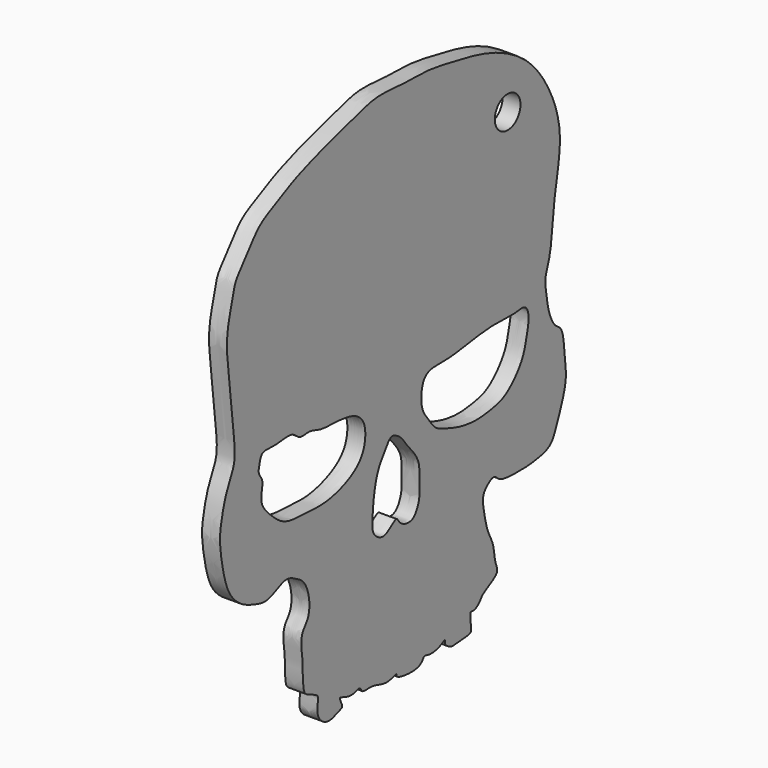
from build123d import *

# Parameters (mm, degrees)
F1_DEPTH = 2.8
F3_D     = 5
F3_DEPTH = 12
F3_TIP   = 1.5021515476


with BuildPart() as f1:
    # F0 (on Right) → F1 (new body)
    with BuildSketch(Plane.YZ):
        with BuildLine():
            add(Edge.make_bspline(
                [(-31.6314250231, 2.2629725281), (-31.5022623164, 3.5733278366), (-32.084502177, 7.3619998692), (-32.4844055662, 12.6708908589), (-33.6101237688, 19.5679290559), (-31.8749353357, 24.3856987582), (-31.6819292031, 26.577974251), (-28.8478925272, 29.5923452072), (-26.9516979755, 32.5411333424), (-23.0902606737, 34.1764656739), (-20.3417451234, 35.7596815072), (-14.8510739911, 37.7553266229), (-8.0075966645, 39.6260680616), (-3.7696084608, 40.9489200556), (1.8230478813, 40.2251331616), (5.8795939333, 40.4557153094), (11.9924587544, 39.2742631608), (18.2053867557, 38.0596382358), (25.6039190844, 34.4663788307), (30.3477510722, 27.7639385741), (32.609647658, 20.3884039898), (30.5358488311, 12.7127659233), (30.2683636428, 5.225589462), (28.7404681221, 2.2897290208), (29.35247476, -0.0460668851), (29.4655249933, -2.082693469), (30.7142346925, -5.1258556332), (32.5747163593, -5.6098080438), (32.7550017093, -10.3751868098), (33.4162771331, -13.5335015531), (31.1711451307, -18.8381701672), (30.2043096136, -21.2761877418), (27.1497466502, -21.910473819), (24.6204287526, -22.1260786927), (21.3516390426, -22.06064594), (19.8950718849, -21.6363351622), (18.9794068191, -20.563005512), (17.6715018273, -21.4913173359), (16.6102626634, -22.615703616), (17.1716949775, -25.4796103361), (17.724239368, -28.0490707881), (19.0584342215, -30.0468571883), (19.0679897719, -32.7354327798), (20.2532798574, -34.5344759712), (16.6431701751, -35.9280746948), (16.2917811625, -37.0556937467), (14.9746520078, -37.8121406605), (14.1371239621, -37.2658261761), (14.6701345687, -39.9503025074), (14.4201972443, -40.6222009547), (12.6120965441, -40.6826616076), (10.8764323796, -40.927741529), (10.1898631843, -40.6518586038), (9.2623073388, -40.0046444825), (9.6509716962, -39.11307364), (8.293980207, -40.1404125012), (6.1779280331, -40.2832716168), (5.3076190837, -39.7518074948), (4.7848842589, -41.3753808122), (0.975944202, -41.1238626395), (-0.1277951166, -40.6005348989), (0.1892436437, -39.9915230028), (-2.0096399663, -41.0871800395), (-4.5937995713, -39.661924332), (-6.8316242034, -40.2627476398), (-7.0544525318, -38.9420787761), (-8.5504516298, -39.8083971229), (-10.3371623423, -39.2758905561), (-11.4582065147, -38.7377431115), (-10.3012195242, -40.5250985757), (-11.2019003886, -40.6876665839), (-13.2645655584, -41.7264478956), (-15.2224926666, -40.4978380116), (-15.6557756408, -38.7589927772), (-15.1080358398, -37.0582113625), (-16.0729426236, -36.5204023925), (-17.7243382602, -35.9333015983), (-18.1958375795, -35.1679641402), (-18.3937046444, -32.8034747843), (-18.2489276481, -31.233623049), (-18.6562535067, -29.2216456196), (-18.583799391, -26.9482960105), (-17.1713062303, -25.7528830491), (-16.9200697947, -23.5843088851), (-17.2999157212, -21.7298889668), (-18.1041544482, -20.0547013892), (-19.5001016745, -19.2281783841), (-21.3133935819, -18.2252082048), (-23.1095959026, -18.9661716558), (-25.3375502669, -20.118591249), (-27.6391682762, -19.4830394962), (-30.4449597159, -18.4852287667), (-32.6089356456, -16.2558015239), (-33.4643189869, -13.9780219257), (-34.0489142028, -11.6627900546), (-34.6292324905, -7.8905100759), (-34.2868338655, -5.6231252409), (-33.535021119, -2.3112187309), (-32.3137000658, -0.0048927787), (-31.7214768755, 1.3493967297), (-31.6314250231, 2.2629725281)],
                knots=[0, 0, 0, 0, 0.0142760402, 0.0295836316, 0.046705848, 0.0609628448, 0.0703356222, 0.083087941, 0.0953804389, 0.1081945223, 0.1197282407, 0.135320708, 0.1526307644, 0.16633004, 0.1812736863, 0.1944489303, 0.2102929566, 0.2267411176, 0.2449825815, 0.2633164769, 0.2808621604, 0.2991690751, 0.3167736161, 0.3281185248, 0.337609835, 0.3471056882, 0.3583482275, 0.3665151062, 0.3797833925, 0.3919821963, 0.4071631773, 0.4173896553, 0.428088026, 0.4387864081, 0.4503599599, 0.4582788779, 0.4651177435, 0.4725627189, 0.4803418803, 0.4910402587, 0.5016727989, 0.5115547742, 0.522083568, 0.5301586692, 0.5416480772, 0.5489075512, 0.5563525383, 0.5608056749, 0.570517769, 0.5756847377, 0.5840579845, 0.5926910133, 0.598290535, 0.6047764249, 0.6092295484, 0.6162171578, 0.6259493222, 0.6314407632, 0.6384463122, 0.6508465448, 0.6573628164, 0.6605116626, 0.6690586346, 0.680515492, 0.6894304517, 0.6950646418, 0.7025096225, 0.7117606553, 0.7167884685, 0.7244060303, 0.7293847995, 0.7390085077, 0.7481888854, 0.7566849916, 0.7647248455, 0.7709474004, 0.7793724933, 0.785351599, 0.7950837605, 0.8034148151, 0.8126267986, 0.822102355, 0.8305580977, 0.8398091284, 0.8487926684, 0.8573482641, 0.8655598876, 0.8745093326, 0.8832821773, 0.8933013517, 0.9030666728, 0.9142172874, 0.9254511684, 0.9353331523, 0.9454427343, 0.9578910246, 0.9678733438, 0.9796326287, 0.9900467875, 1, 1, 1, 1], degree=3))
        make_face()
        with BuildLine():
            add(Edge.make_bspline(
                [(-26.3306088746, -6.0254530981), (-26.5283195156, -5.3119049084), (-26.1961312704, -4.0185808443), (-26.1557107856, -2.6559615251), (-27.0924647305, -1.8291575038), (-26.7922602428, -0.6155688692), (-26.6849174237, -0.0187712865), (-26.1642700205, 1.1696957047), (-23.7313517024, 0.6068469368), (-20.2699860904, 1.5010658887), (-19.024643496, -0.3879012178), (-16.9531619567, 0.2710314914), (-14.9253911858, -0.7976226828), (-11.690736213, -0.7099703765), (-8.9199980678, -1.0739900526), (-7.3138682475, -1.8148664381), (-5.8950928412, -3.425657521), (-6.1637992621, -8.1375247192), (-10.8719776339, -10.5272985443), (-14.636840646, -11.1448452375), (-17.1653136795, -10.8955841942), (-20.2463046813, -10.8950799807), (-22.4622204598, -10.292504707), (-24.5168781089, -8.5500352318), (-26.0897961411, -6.8945590255), (-26.3306088746, -6.0254530981)],
                knots=[0, 0, 0, 0, 0.0415396795, 0.0741458137, 0.1044990729, 0.1350083938, 0.1584503614, 0.1868629888, 0.2307306047, 0.2841389297, 0.3227246174, 0.361779906, 0.4047970594, 0.4570111489, 0.5054332265, 0.5427730004, 0.5830101759, 0.6414390397, 0.705913326, 0.762247875, 0.8083262253, 0.8585614354, 0.9017764056, 0.949404424, 1, 1, 1, 1], degree=3))
        make_face(mode=Mode.SUBTRACT)
        with BuildLine():
            add(Edge.make_bspline(
                [(-1.0851139668, -7.2496430948), (-1.5120607503, -7.4116611526), (-2.2236452859, -8.6722162059), (-3.3178640935, -9.9842610557), (-4.1362040293, -12.1738191765), (-4.5696069418, -14.7405431581), (-4.7018265766, -16.795721495), (-4.8587774946, -19.2491839678), (-3.1361141762, -20.3011438778), (-2.1728349039, -20.2990077162), (-1.0244765757, -19.4588193387), (0.0663091363, -18.6731318761), (0.4085698484, -19.5801972927), (1.3816794678, -20.2759420429), (2.4275696185, -20.4432962933), (3.5989412375, -20.1163641992), (4.5587626286, -18.0115860604), (4.4017808074, -16.4343147287), (4.4409244583, -14.4245494838), (4.4420371761, -12.9899232567), (3.6066499355, -11.42234236), (2.474490193, -10.1751245714), (1.7586472898, -9.2930199226), (1.0376614626, -8.2003226498), (0.0635836006, -7.4652608611), (-0.7425672471, -7.119653231), (-1.0851139668, -7.2496430948)],
                knots=[0, 0, 0, 0, 0.0444257847, 0.0897319635, 0.1409429475, 0.1954370754, 0.244961957, 0.2958961167, 0.3404266717, 0.3723395902, 0.4132895439, 0.4483830783, 0.4767571893, 0.5136070588, 0.5478424243, 0.5831729405, 0.6324589319, 0.6760741677, 0.7234086849, 0.7638455861, 0.8082713676, 0.852202647, 0.888316796, 0.9264354253, 0.9643564318, 1, 1, 1, 1], degree=3))
        make_face(mode=Mode.SUBTRACT)
        with BuildLine():
            add(Edge.make_bspline(
                [(25.729611516, -1.3503346127), (25.8275936321, -2.1812529322), (25.4312284956, -4.1869351714), (24.6708839052, -7.0496417371), (22.7181726666, -9.4165126052), (20.7477987266, -10.9526736764), (18.1681475002, -11.45105387), (15.4366575246, -11.7796823356), (12.3057618991, -11.3492880557), (9.8662999384, -10.4816951271), (7.4315588717, -9.6370285147), (6.3587737141, -7.8796340816), (4.8605186328, -6.2074416625), (4.6929685753, -3.3290388668), (5.6894801359, -0.7621527055), (9.9425944197, -1.1017615836), (13.3407564623, -0.5633437769), (18.0231937423, 0.1062870296), (20.7384591281, 0.0099379212), (23.1876923271, -0.1149635984), (25.176276507, 0.3620127301), (25.6571403083, -0.735756601), (25.729611516, -1.3503346127)],
                knots=[0, 0, 0, 0, 0.0509652997, 0.1038612368, 0.156655857, 0.2043151978, 0.2529013706, 0.3037946473, 0.3576382423, 0.4073573338, 0.4550668343, 0.4978628056, 0.5428588618, 0.5937521389, 0.6397160923, 0.6987501197, 0.7577841653, 0.8234189464, 0.8742191808, 0.9220284643, 0.9623041738, 1, 1, 1, 1], degree=3))
        make_face(mode=Mode.SUBTRACT)
    extrude(amount=F1_DEPTH)

    # F3
    with Locations(Plane.YZ.offset(2.8)):
        with Locations((21.6738972813, 28.2024238259)):
            Hole(F3_D / 2, depth=F3_DEPTH)
            with Locations((0, 0, -(F3_DEPTH + F3_TIP / 2))):  # 118° drill point
                Cone(0, F3_D / 2, F3_TIP, mode=Mode.SUBTRACT)


solid = f1.part
